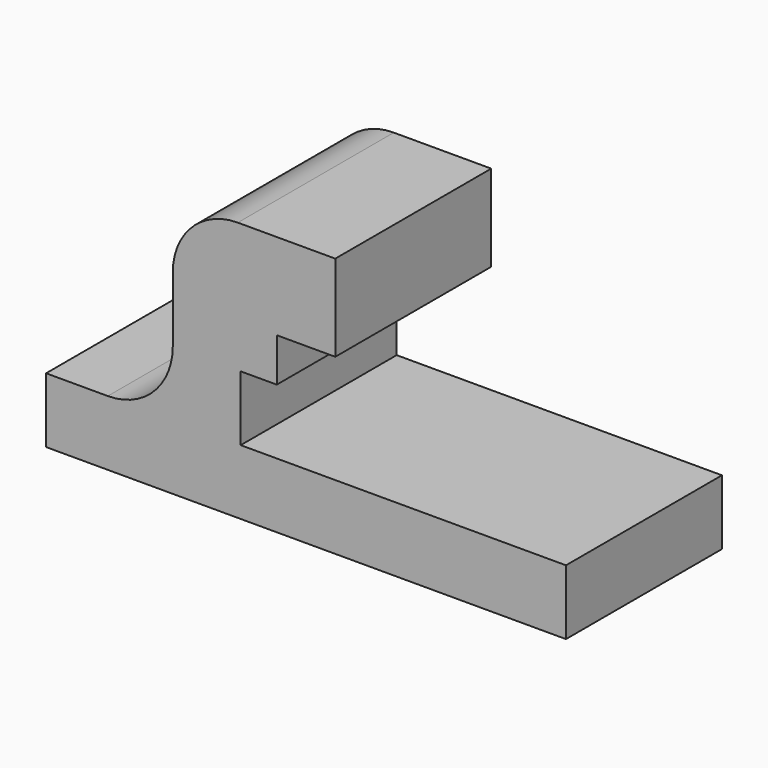
from build123d import *

# Parameters (mm, degrees)
F1_DEPTH = 30
F2_R     = 10


with BuildPart() as f1:
    # F0 (on Front) → F1 (new body)
    with BuildSketch(Plane.XZ):
        Polygon((0, 10), (0, 0), (80, 0), (80, 10), (29.95, 10), (29.95, 20), (35.5, 20), (35.5, 26.7), (44.5, 26.7), (44.5, 40), (19.5, 40), (19.5, 10), align=None)
    extrude(amount=F1_DEPTH)

    # F2
    f2_edges = [f1.edges().sort_by_distance(p)[0] for p in [
        (19.5, -15, 10),
        (19.5, -15, 40),
    ]]
    fillet(f2_edges, radius=F2_R)


solid = f1.part
